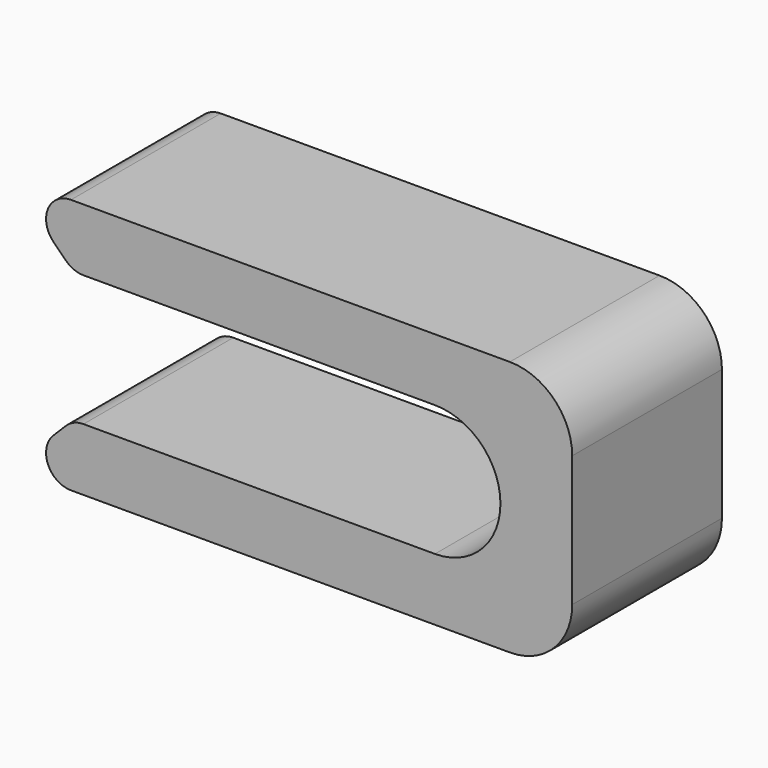
from build123d import *

# Parameters (mm, degrees)
F1_DEPTH = 15
F2_R     = 5
F3_R     = 2


with BuildPart() as f1:
    # F0 (on Front) → F1 (new body)
    with BuildSketch(Plane.XZ):
        with BuildLine():
            Line((-20, 5), (-25, 0))
            Line((-25, 0), (20, 0))
            Line((20, 0), (20, 20.5))
            Line((20, 20.5), (-25, 20.5))
            Line((-25, 20.5), (-20, 15.5))
            Line((-20, 15.5), (8.997297, 15.5))
            ThreePointArc((8.997297, 15.5), (14.247297, 10.25), (8.997297, 5))
            Line((8.997297, 5), (-20, 5))
        make_face()
    extrude(amount=F1_DEPTH)

    # F2
    f2_edges = [f1.edges().sort_by_distance(p)[0] for p in [
        (20, -7.5, 20.5),
        (20, -7.5, 0),
    ]]
    fillet(f2_edges, radius=F2_R)

    # F3
    f3_edges = [f1.edges().sort_by_distance(p)[0] for p in [
        (-25, -7.5, 20.5),
        (-20, -7.5, 5),
        (-25, -7.5, 0),
        (-20, -7.5, 15.5),
    ]]
    fillet(f3_edges, radius=F3_R)


solid = f1.part
